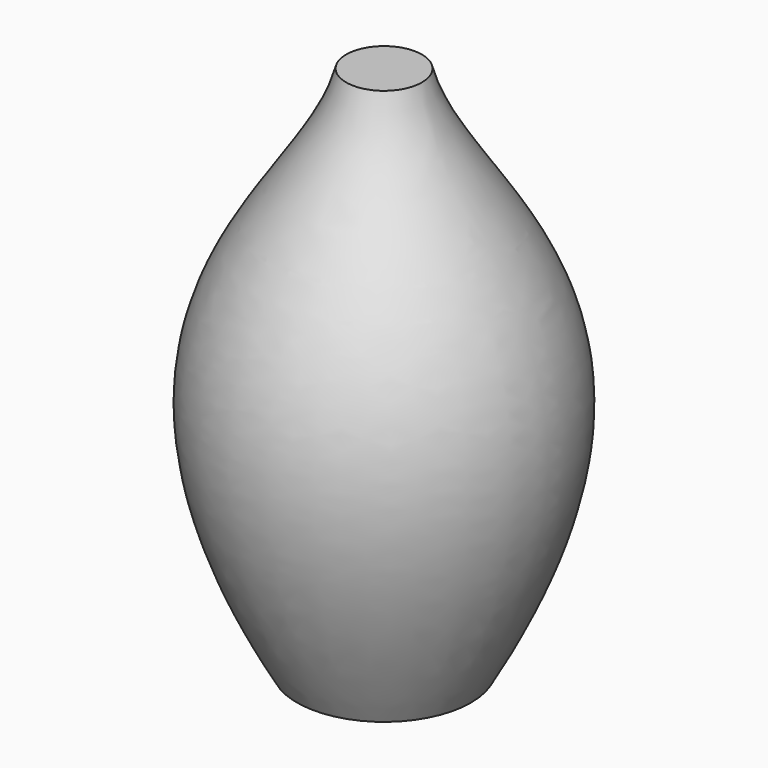
from build123d import *


with BuildPart() as f1:
    # F0 (on Front) → F1 (revolve)
    with BuildSketch(Plane.XZ):
        with BuildLine():
            Line((0, 280), (0, 0))
            Line((0, 0), (46, 0))
            add(Edge.make_bspline(
                [(20, 280), (38.104076, 212.255567), (143.433306, 168.759436), (46, 0)],
                knots=[0, 0, 0, 0, 281.204552, 281.204552, 281.204552, 281.204552], degree=3))
            Line((20, 280), (0, 280))
        make_face()
    revolve(axis=Axis((0, 0, 140), (0, 0, 1)))


solid = f1.part
